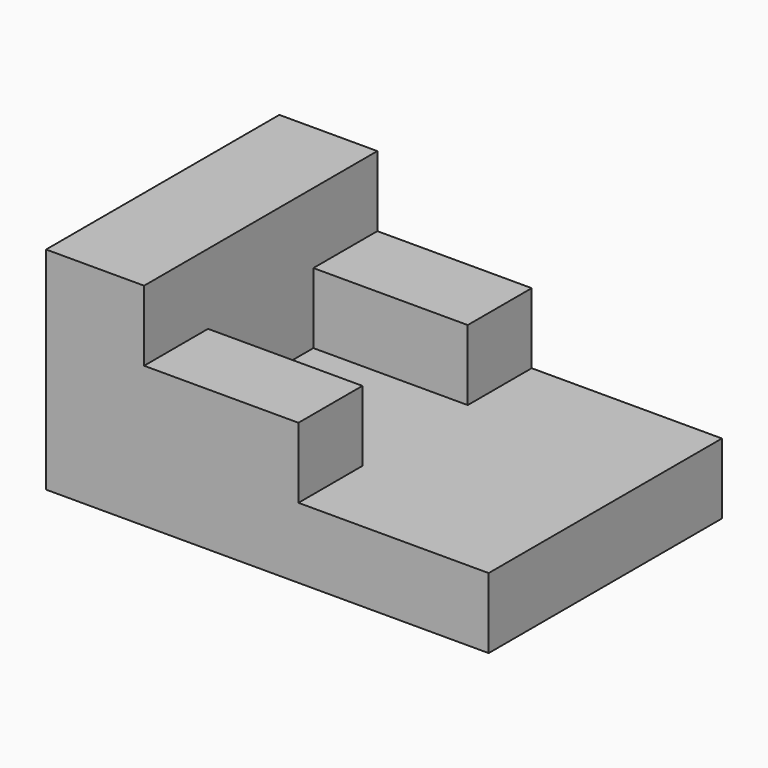
from build123d import *

# Parameters (mm, degrees)
F0_W     = 79.766176641
F0_H     = 52.5435172021
F1_DEPTH = 12.7
F2_W     = 27.8192292899
F2_H     = 14.4076673314
F2_H_2   = 14.4076794386
F3_DEPTH = 12.7
F5_DEPTH = 12.7


with BuildPart() as f1:
    # F0 (on Top) → F1 (new body)
    with BuildSketch(Plane.XY):
        with Locations((39.8830883205, 26.2717586011)):
            Rectangle(F0_W, F0_H)
    extrude(amount=F1_DEPTH)

    # F2 (on face) → F3 (join)
    with BuildSketch(Plane.XY.offset(12.7)):
        Polygon((17.6650751382, 52.5435172021), (0, 52.5435172021), (0, 0), (17.6650751382, 0), (17.6650751382, 14.4076673314), (17.6650751382, 38.1358377635), align=None)
        with Locations((31.5746897832, 7.2038336657)):
            Rectangle(F2_W, F2_H)
        with Locations((31.5746897832, 45.3396774828)):
            Rectangle(F2_W, F2_H_2)
    extrude(amount=F3_DEPTH)

    # F4 (on face) → F5 (join)
    with BuildSketch(Plane.XY.offset(25.4)):
        Polygon((17.6650751382, 52.5435172021), (0, 52.5435172021), (0, 0), (17.6650751382, 0), (17.6650751382, 14.4076673314), (17.6650751382, 38.1358377635), align=None)
    extrude(amount=F5_DEPTH)


solid = f1.part
